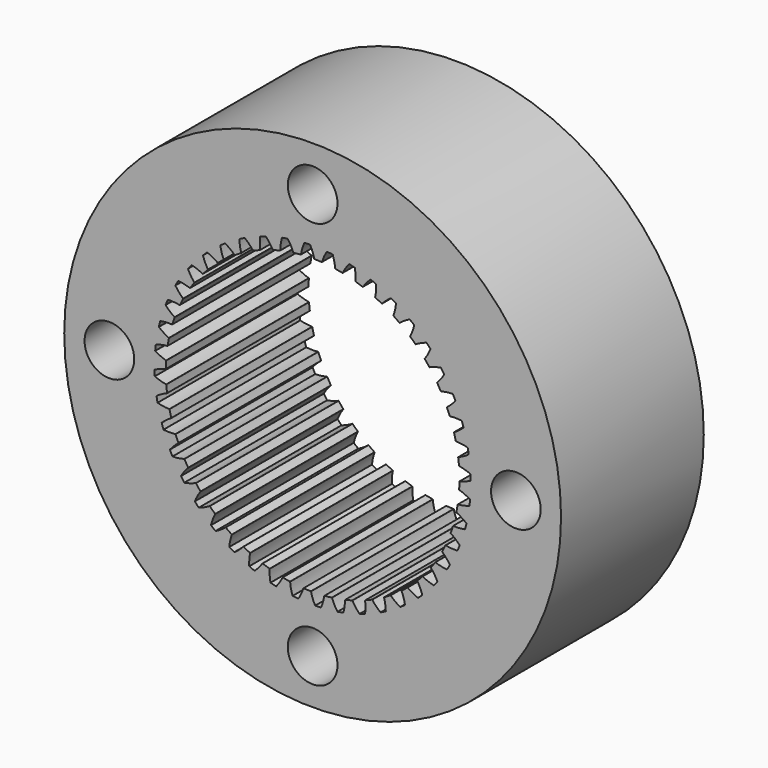
from build123d import *

# Parameters (mm, degrees)
F0_R     = 11
F1_DEPTH = 7.9
F2_R     = 1.1
F3_DEPTH = 7.901
F5_DEPTH = 7.901


with BuildPart() as f1:
    # F0 (on Front) → F1 (new body)
    with BuildSketch(Plane.XZ):
        Circle(F0_R)
        Circle(F0_R)
    extrude(amount=F1_DEPTH)

    # F2 (on face) → F3 (cut, through all)
    with BuildSketch(Plane.XZ.offset(7.9)):
        with Locations((0, 9)):
            Circle(F2_R)
        with Locations((-9, 0)):
            Circle(F2_R)
        with Locations((0, -9)):
            Circle(F2_R)
        with Locations((9, 0)):
            Circle(F2_R)
    extrude(amount=-F3_DEPTH, mode=Mode.SUBTRACT)

    # F4 (on face) → F5 (cut, through all)
    with BuildSketch(Plane.XZ.offset(7.9)):
        with BuildLine():
            ThreePointArc((-0.359812, 6.990746), (-0.366818, 6.988353), (-0.371508, 6.982625))
            ThreePointArc((-0.371508, 6.982625), (-0.458763, 6.74072), (-0.51535, 6.489862))
            ThreePointArc((-0.51535, 6.489862), (-0.519514, 6.482096), (-0.527583, 6.478554))
            ThreePointArc((-0.527583, 6.478554), (-0.684786, 6.463828), (-0.841585, 6.445288))
            ThreePointArc((-0.841585, 6.445288), (-1.144166, 6.398506), (-1.444207, 6.337528))
            ThreePointArc((-1.444207, 6.337528), (-1.597715, 6.30058), (-1.750279, 6.259914))
            ThreePointArc((-1.750279, 6.259914), (-2.043122, 6.170547), (-2.331431, 6.067489))
            ThreePointArc((-2.331431, 6.067489), (-2.478118, 6.009071), (-2.623343, 5.947106))
            ThreePointArc((-2.623343, 5.947106), (-2.900486, 5.816973), (-3.171195, 5.673934))
            ThreePointArc((-3.171195, 5.673934), (-3.308074, 5.595234), (-3.443002, 5.513233))
            ThreePointArc((-3.443002, 5.513233), (-3.698805, 5.344983), (-3.946401, 5.164873))
            ThreePointArc((-3.946401, 5.164873), (-4.070688, 5.067494), (-4.192572, 4.967126))
            ThreePointArc((-4.192572, 4.967126), (-4.421827, 4.764184), (-4.641271, 4.550671))
            ThreePointArc((-4.641271, 4.550671), (-4.750434, 4.436595), (-4.856794, 4.319902))
            ThreePointArc((-4.856794, 4.319902), (-5.054833, 4.086399), (-5.241657, 3.84383))
            ThreePointArc((-5.241657, 3.84383), (-5.333475, 3.71538), (-5.422145, 3.584738))
            ThreePointArc((-5.422145, 3.584738), (-5.584938, 3.325428), (-5.735339, 3.05874))
            ThreePointArc((-5.735339, 3.05874), (-5.807941, 2.91853), (-5.877117, 2.776599))
            ThreePointArc((-5.877117, 2.776599), (-6.001349, 2.49676), (-6.112265, 2.211382))
            ThreePointArc((-6.112265, 2.211382), (-6.164175, 2.062268), (-6.212447, 1.911936))
            ThreePointArc((-6.212447, 1.911936), (-6.29559, 1.617266), (-6.364764, 1.319007))
            ThreePointArc((-6.364764, 1.319007), (-6.394924, 1.164023), (-6.42131, 1.008352))
            ThreePointArc((-6.42131, 1.008352), (-6.461671, 0.704849), (-6.487694, 0.399782))
            ThreePointArc((-6.487694, 0.399782), (-6.49549, 0.242083), (-6.499454, 0.084241))
            ThreePointArc((-6.499454, 0.084241), (-6.496211, -0.221917), (-6.478554, -0.527583))
            ThreePointArc((-6.478554, -0.527583), (-6.463828, -0.684786), (-6.445288, -0.841585))
            ThreePointArc((-6.445288, -0.841585), (-6.398506, -1.144166), (-6.337528, -1.444207))
            ThreePointArc((-6.337528, -1.444207), (-6.30058, -1.597715), (-6.259914, -1.750279))
            ThreePointArc((-6.259914, -1.750279), (-6.170547, -2.043122), (-6.067489, -2.331431))
            ThreePointArc((-6.067489, -2.331431), (-6.009071, -2.478118), (-5.947106, -2.623343))
            ThreePointArc((-5.947106, -2.623343), (-5.816973, -2.900486), (-5.673934, -3.171195))
            ThreePointArc((-5.673934, -3.171195), (-5.595234, -3.308074), (-5.513233, -3.443002))
            ThreePointArc((-5.513233, -3.443002), (-5.344983, -3.698805), (-5.164873, -3.946401))
            ThreePointArc((-5.164873, -3.946401), (-5.067494, -4.070688), (-4.967126, -4.192572))
            ThreePointArc((-4.967126, -4.192572), (-4.764184, -4.421827), (-4.550671, -4.641271))
            ThreePointArc((-4.550671, -4.641271), (-4.436595, -4.750434), (-4.319902, -4.856794))
            ThreePointArc((-4.319902, -4.856794), (-4.086399, -5.054833), (-3.84383, -5.241657))
            ThreePointArc((-3.84383, -5.241657), (-3.71538, -5.333475), (-3.584738, -5.422145))
            ThreePointArc((-3.584738, -5.422145), (-3.325428, -5.584938), (-3.05874, -5.735339))
            ThreePointArc((-3.05874, -5.735339), (-2.91853, -5.807941), (-2.776599, -5.877117))
            ThreePointArc((-2.776599, -5.877117), (-2.49676, -6.001349), (-2.211382, -6.112265))
            ThreePointArc((-2.211382, -6.112265), (-2.062268, -6.164175), (-1.911936, -6.212447))
            ThreePointArc((-1.911936, -6.212447), (-1.617266, -6.29559), (-1.319007, -6.364764))
            ThreePointArc((-1.319007, -6.364764), (-1.164023, -6.394924), (-1.008352, -6.42131))
            ThreePointArc((-1.008352, -6.42131), (-0.704849, -6.461671), (-0.399782, -6.487694))
            ThreePointArc((-0.399782, -6.487694), (-0.242083, -6.49549), (-0.084241, -6.499454))
            ThreePointArc((-0.084241, -6.499454), (0.221917, -6.496211), (0.527583, -6.478554))
            ThreePointArc((0.527583, -6.478554), (0.684786, -6.463828), (0.841585, -6.445288))
            ThreePointArc((0.841585, -6.445288), (1.144166, -6.398506), (1.444207, -6.337528))
            ThreePointArc((1.444207, -6.337528), (1.597715, -6.30058), (1.750279, -6.259914))
            ThreePointArc((1.750279, -6.259914), (2.043122, -6.170547), (2.331431, -6.067489))
            ThreePointArc((2.331431, -6.067489), (2.478118, -6.009071), (2.623343, -5.947106))
            ThreePointArc((2.623343, -5.947106), (2.900486, -5.816973), (3.171195, -5.673934))
            ThreePointArc((3.171195, -5.673934), (3.308074, -5.595234), (3.443002, -5.513233))
            ThreePointArc((3.443002, -5.513233), (3.698805, -5.344983), (3.946401, -5.164873))
            ThreePointArc((3.946401, -5.164873), (4.070688, -5.067494), (4.192572, -4.967126))
            ThreePointArc((4.192572, -4.967126), (4.421827, -4.764184), (4.641271, -4.550671))
            ThreePointArc((4.641271, -4.550671), (4.750434, -4.436595), (4.856794, -4.319902))
            ThreePointArc((4.856794, -4.319902), (5.054833, -4.086399), (5.241657, -3.84383))
            ThreePointArc((5.241657, -3.84383), (5.333475, -3.71538), (5.422145, -3.584738))
            ThreePointArc((5.422145, -3.584738), (5.584938, -3.325428), (5.735339, -3.05874))
            ThreePointArc((5.735339, -3.05874), (5.807941, -2.91853), (5.877117, -2.776599))
            ThreePointArc((5.877117, -2.776599), (6.001349, -2.49676), (6.112265, -2.211382))
            ThreePointArc((6.112265, -2.211382), (6.164175, -2.062268), (6.212447, -1.911936))
            ThreePointArc((6.212447, -1.911936), (6.29559, -1.617266), (6.364764, -1.319007))
            ThreePointArc((6.364764, -1.319007), (6.394924, -1.164023), (6.42131, -1.008352))
            ThreePointArc((6.42131, -1.008352), (6.461671, -0.704849), (6.487694, -0.399782))
            ThreePointArc((6.487694, -0.399782), (6.49549, -0.242083), (6.499454, -0.084241))
            ThreePointArc((6.499454, -0.084241), (6.496211, 0.221917), (6.478554, 0.527583))
            ThreePointArc((6.478554, 0.527583), (6.463828, 0.684786), (6.445288, 0.841585))
            ThreePointArc((6.445288, 0.841585), (6.398506, 1.144166), (6.337528, 1.444207))
            ThreePointArc((6.337528, 1.444207), (6.30058, 1.597715), (6.259914, 1.750279))
            ThreePointArc((6.259914, 1.750279), (6.170547, 2.043122), (6.067489, 2.331431))
            ThreePointArc((6.067489, 2.331431), (6.009071, 2.478118), (5.947106, 2.623343))
            ThreePointArc((5.947106, 2.623343), (5.816973, 2.900486), (5.673934, 3.171195))
            ThreePointArc((5.673934, 3.171195), (5.595234, 3.308074), (5.513233, 3.443002))
            ThreePointArc((5.513233, 3.443002), (5.344983, 3.698805), (5.164873, 3.946401))
            ThreePointArc((5.164873, 3.946401), (5.067494, 4.070688), (4.967126, 4.192572))
            ThreePointArc((4.967126, 4.192572), (4.764184, 4.421827), (4.550671, 4.641271))
            ThreePointArc((4.550671, 4.641271), (4.436595, 4.750434), (4.319902, 4.856794))
            ThreePointArc((4.319902, 4.856794), (4.086399, 5.054833), (3.84383, 5.241657))
            ThreePointArc((3.84383, 5.241657), (3.71538, 5.333475), (3.584738, 5.422145))
            ThreePointArc((3.584738, 5.422145), (3.325428, 5.584938), (3.05874, 5.735339))
            ThreePointArc((3.05874, 5.735339), (2.91853, 5.807941), (2.776599, 5.877117))
            ThreePointArc((2.776599, 5.877117), (2.49676, 6.001349), (2.211382, 6.112265))
            ThreePointArc((2.211382, 6.112265), (2.062268, 6.164175), (1.911936, 6.212447))
            ThreePointArc((1.911936, 6.212447), (1.617266, 6.29559), (1.319007, 6.364764))
            ThreePointArc((1.319007, 6.364764), (1.164023, 6.394924), (1.008352, 6.42131))
            ThreePointArc((1.008352, 6.42131), (0.704849, 6.461671), (0.399782, 6.487694))
            ThreePointArc((0.399782, 6.487694), (0.242083, 6.49549), (0.084241, 6.499454))
            ThreePointArc((0.084241, 6.499454), (0.075949, 6.502438), (0.071265, 6.509902))
            ThreePointArc((0.071265, 6.509902), (-0.002309, 6.756312), (-0.105869, 6.991699))
            ThreePointArc((-0.105869, 6.991699), (-0.110939, 6.997094), (-0.118092, 6.999004))
            ThreePointArc((-0.118092, 6.999004), (-0.238988, 6.995919), (-0.359812, 6.990746))
        make_face()
        with BuildLine():
            ThreePointArc((-1.444207, 6.337528), (-1.144166, 6.398506), (-0.841585, 6.445288))
            ThreePointArc((-0.841585, 6.445288), (-0.850217, 6.447061), (-0.855916, 6.453782))
            ThreePointArc((-0.855916, 6.453782), (-0.963809, 6.687214), (-1.099814, 6.905467))
            ThreePointArc((-1.099814, 6.905467), (-1.1056, 6.910086), (-1.112952, 6.910958))
            ThreePointArc((-1.112952, 6.910958), (-1.232178, 6.890699), (-1.351037, 6.868384))
            ThreePointArc((-1.351037, 6.868384), (-1.357631, 6.865018), (-1.361458, 6.858681))
            ThreePointArc((-1.361458, 6.858681), (-1.413398, 6.60682), (-1.433709, 6.350463))
            ThreePointArc((-1.433709, 6.350463), (-1.436725, 6.342183), (-1.444207, 6.337528))
        make_face()
        with BuildLine():
            ThreePointArc((-2.331431, 6.067489), (-2.043122, 6.170547), (-1.750279, 6.259914))
            ThreePointArc((-1.750279, 6.259914), (-1.759076, 6.260441), (-1.765673, 6.266282))
            ThreePointArc((-1.765673, 6.266282), (-1.905689, 6.481984), (-2.07137, 6.67866))
            ThreePointArc((-2.07137, 6.67866), (-2.077754, 6.682408), (-2.085156, 6.682225))
            ThreePointArc((-2.085156, 6.682225), (-2.200285, 6.645205), (-2.314758, 6.606201))
            ThreePointArc((-2.314758, 6.606201), (-2.320806, 6.601931), (-2.323693, 6.595113))
            ThreePointArc((-2.323693, 6.595113), (-2.33926, 6.338425), (-2.322881, 6.081786))
            ThreePointArc((-2.322881, 6.081786), (-2.324688, 6.073162), (-2.331431, 6.067489))
        make_face()
        with BuildLine():
            ThreePointArc((0.413499, 6.497147), (0.408272, 6.490052), (0.399782, 6.487694))
            ThreePointArc((0.399782, 6.487694), (0.704849, 6.461671), (1.008352, 6.42131))
            ThreePointArc((1.008352, 6.42131), (1.00057, 6.425444), (0.996995, 6.433498))
            ThreePointArc((0.996995, 6.433498), (0.959238, 6.687872), (0.890231, 6.935601))
            ThreePointArc((0.890231, 6.935601), (0.885981, 6.941662), (0.879172, 6.94457))
            ThreePointArc((0.879172, 6.94457), (0.759068, 6.958722), (0.638737, 6.970797))
            ThreePointArc((0.638737, 6.970797), (0.631462, 6.969425), (0.626004, 6.964423))
            ThreePointArc((0.626004, 6.964423), (0.505211, 6.737398), (0.413499, 6.497147))
        make_face()
        with BuildLine():
            ThreePointArc((-3.171195, 5.673934), (-2.900486, 5.816973), (-2.623343, 5.947106))
            ThreePointArc((-2.623343, 5.947106), (-2.632124, 5.946376), (-2.639486, 5.951219))
            ThreePointArc((-2.639486, 5.951219), (-2.808774, 6.144799), (-3.000758, 6.315894))
            ThreePointArc((-3.000758, 6.315894), (-3.007612, 6.318695), (-3.014911, 6.317461))
            ThreePointArc((-3.014911, 6.317461), (-3.123601, 6.264433), (-3.231358, 6.209535))
            ThreePointArc((-3.231358, 6.209535), (-3.236736, 6.204448), (-3.238623, 6.197289))
            ThreePointArc((-3.238623, 6.197289), (-3.217502, 5.940997), (-3.164765, 5.689302))
            ThreePointArc((-3.164765, 5.689302), (-3.165327, 5.680508), (-3.171195, 5.673934))
        make_face()
        with BuildLine():
            ThreePointArc((1.33393, 6.372168), (1.327747, 6.36589), (1.319007, 6.364764))
            ThreePointArc((1.319007, 6.364764), (1.617266, 6.29559), (1.911936, 6.212447))
            ThreePointArc((1.911936, 6.212447), (1.904821, 6.217646), (1.90243, 6.226127))
            ThreePointArc((1.90243, 6.226127), (1.901258, 6.483285), (1.868209, 6.738313))
            ThreePointArc((1.868209, 6.738313), (1.864864, 6.744918), (1.858539, 6.748765))
            ThreePointArc((1.858539, 6.748765), (1.741671, 6.779866), (1.624283, 6.808943))
            ThreePointArc((1.624283, 6.808943), (1.616887, 6.80862), (1.610773, 6.804445))
            ThreePointArc((1.610773, 6.804445), (1.4589, 6.596922), (1.33393, 6.372168))
        make_face()
        with BuildLine():
            ThreePointArc((-3.946401, 5.164873), (-3.698805, 5.344983), (-3.443002, 5.513233))
            ThreePointArc((-3.443002, 5.513233), (-3.451591, 5.51126), (-3.459566, 5.515007))
            ThreePointArc((-3.459566, 5.515007), (-3.654681, 5.682523), (-3.86906, 5.824555))
            ThreePointArc((-3.86906, 5.824555), (-3.876242, 5.826352), (-3.883292, 5.824091))
            ThreePointArc((-3.883292, 5.824091), (-3.983329, 5.756135), (-4.082176, 5.686461))
            ThreePointArc((-4.082176, 5.686461), (-4.086776, 5.68066), (-4.087625, 5.673305))
            ThreePointArc((-4.087625, 5.673305), (-4.030244, 5.422628), (-3.942225, 5.181))
            ThreePointArc((-3.942225, 5.181), (-3.941529, 5.172216), (-3.946401, 5.164873))
        make_face()
        with BuildLine():
            ThreePointArc((2.227207, 6.117471), (2.220193, 6.112136), (2.211382, 6.112265))
            ThreePointArc((2.211382, 6.112265), (2.49676, 6.001349), (2.776599, 5.877117))
            ThreePointArc((2.776599, 5.877117), (2.770296, 5.883275), (2.769136, 5.89201))
            ThreePointArc((2.769136, 5.89201), (2.804573, 6.146717), (2.808155, 6.403853))
            ThreePointArc((2.808155, 6.403853), (2.805784, 6.410866), (2.800071, 6.415575))
            ThreePointArc((2.800071, 6.415575), (2.688819, 6.462991), (2.576764, 6.508478))
            ThreePointArc((2.576764, 6.508478), (2.569397, 6.509211), (2.562751, 6.505949))
            ThreePointArc((2.562751, 6.505949), (2.38289, 6.322151), (2.227207, 6.117471))
        make_face()
        with BuildLine():
            ThreePointArc((-4.641271, 4.550671), (-4.421827, 4.764184), (-4.192572, 4.967126))
            ThreePointArc((-4.192572, 4.967126), (-4.200792, 4.963951), (-4.20922, 4.966524))
            ThreePointArc((-4.20922, 4.966524), (-4.426189, 5.104568), (-4.6586, 5.214644))
            ThreePointArc((-4.6586, 5.214644), (-4.665964, 5.215401), (-4.672621, 5.21216))
            ThreePointArc((-4.672621, 5.21216), (-4.761968, 5.130659), (-4.849893, 5.047627))
            ThreePointArc((-4.849893, 5.047627), (-4.853621, 5.04123), (-4.853414, 5.033829))
            ThreePointArc((-4.853414, 5.033829), (-4.760943, 4.79387), (-4.639432, 4.567228))
            ThreePointArc((-4.639432, 4.567228), (-4.637493, 4.558632), (-4.641271, 4.550671))
        make_face()
        with BuildLine():
            ThreePointArc((3.075144, 5.738239), (3.067442, 5.733957), (3.05874, 5.735339))
            ThreePointArc((3.05874, 5.735339), (3.325428, 5.584938), (3.584738, 5.422145))
            ThreePointArc((3.584738, 5.422145), (3.579376, 5.429137), (3.579471, 5.437949))
            ThreePointArc((3.579471, 5.437949), (3.650796, 5.68502), (3.690936, 5.939029))
            ThreePointArc((3.690936, 5.939029), (3.689587, 5.946308), (3.684602, 5.951782))
            ThreePointArc((3.684602, 5.951782), (3.58123, 6.014548), (3.476789, 6.075519))
            ThreePointArc((3.476789, 6.075519), (3.469602, 6.077294), (3.462559, 6.07501))
            ThreePointArc((3.462559, 6.07501), (3.258372, 5.91868), (3.075144, 5.738239))
        make_face()
        with BuildLine():
            ThreePointArc((-5.241657, 3.84383), (-5.054833, 4.086399), (-4.856794, 4.319902))
            ThreePointArc((-4.856794, 4.319902), (-4.864478, 4.31559), (-4.873187, 4.316937))
            ThreePointArc((-4.873187, 4.316937), (-5.107592, 4.422699), (-5.353303, 4.498579))
            ThreePointArc((-5.353303, 4.498579), (-5.3607, 4.49828), (-5.366828, 4.494125))
            ThreePointArc((-5.366828, 4.494125), (-5.443667, 4.400738), (-5.518881, 4.306037))
            ThreePointArc((-5.518881, 4.306037), (-5.52166, 4.299175), (-5.520402, 4.291879))
            ThreePointArc((-5.520402, 4.291879), (-5.394722, 4.067522), (-5.242193, 3.86048))
            ThreePointArc((-5.242193, 3.86048), (-5.239051, 3.852247), (-5.241657, 3.84383))
        make_face()
        with BuildLine():
            ThreePointArc((3.86048, 5.242193), (3.852247, 5.239051), (3.84383, 5.241657))
            ThreePointArc((3.84383, 5.241657), (4.086399, 5.054833), (4.319902, 4.856794))
            ThreePointArc((4.319902, 4.856794), (4.31559, 4.864478), (4.316937, 4.873187))
            ThreePointArc((4.316937, 4.873187), (4.422699, 5.107592), (4.498579, 5.353303))
            ThreePointArc((4.498579, 5.353303), (4.49828, 5.3607), (4.494125, 5.366828))
            ThreePointArc((4.494125, 5.366828), (4.400738, 5.443667), (4.306037, 5.518881))
            ThreePointArc((4.306037, 5.518881), (4.299175, 5.52166), (4.291879, 5.520402))
            ThreePointArc((4.291879, 5.520402), (4.067522, 5.394722), (3.86048, 5.242193))
        make_face()
        with BuildLine():
            ThreePointArc((-5.735339, 3.05874), (-5.584938, 3.325428), (-5.422145, 3.584738))
            ThreePointArc((-5.422145, 3.584738), (-5.429137, 3.579376), (-5.437949, 3.579471))
            ThreePointArc((-5.437949, 3.579471), (-5.68502, 3.650796), (-5.939029, 3.690936))
            ThreePointArc((-5.939029, 3.690936), (-5.946308, 3.689587), (-5.951782, 3.684602))
            ThreePointArc((-5.951782, 3.684602), (-6.014548, 3.58123), (-6.075519, 3.476789))
            ThreePointArc((-6.075519, 3.476789), (-6.077294, 3.469602), (-6.07501, 3.462559))
            ThreePointArc((-6.07501, 3.462559), (-5.91868, 3.258372), (-5.738239, 3.075144))
            ThreePointArc((-5.738239, 3.075144), (-5.733957, 3.067442), (-5.735339, 3.05874))
        make_face()
        with BuildLine():
            ThreePointArc((4.567228, 4.639432), (4.558632, 4.637493), (4.550671, 4.641271))
            ThreePointArc((4.550671, 4.641271), (4.764184, 4.421827), (4.967126, 4.192572))
            ThreePointArc((4.967126, 4.192572), (4.963951, 4.200792), (4.966524, 4.20922))
            ThreePointArc((4.966524, 4.20922), (5.104568, 4.426189), (5.214644, 4.6586))
            ThreePointArc((5.214644, 4.6586), (5.215401, 4.665964), (5.21216, 4.672621))
            ThreePointArc((5.21216, 4.672621), (5.130659, 4.761968), (5.047627, 4.849893))
            ThreePointArc((5.047627, 4.849893), (5.04123, 4.853621), (5.033829, 4.853414))
            ThreePointArc((5.033829, 4.853414), (4.79387, 4.760943), (4.567228, 4.639432))
        make_face()
        with BuildLine():
            ThreePointArc((-6.112265, 2.211382), (-6.001349, 2.49676), (-5.877117, 2.776599))
            ThreePointArc((-5.877117, 2.776599), (-5.883275, 2.770296), (-5.89201, 2.769136))
            ThreePointArc((-5.89201, 2.769136), (-6.146717, 2.804573), (-6.403853, 2.808155))
            ThreePointArc((-6.403853, 2.808155), (-6.410866, 2.805784), (-6.415575, 2.800071))
            ThreePointArc((-6.415575, 2.800071), (-6.462991, 2.688819), (-6.508478, 2.576764))
            ThreePointArc((-6.508478, 2.576764), (-6.509211, 2.569397), (-6.505949, 2.562751))
            ThreePointArc((-6.505949, 2.562751), (-6.322151, 2.38289), (-6.117471, 2.227207))
            ThreePointArc((-6.117471, 2.227207), (-6.112136, 2.220193), (-6.112265, 2.211382))
        make_face()
        with BuildLine():
            ThreePointArc((5.181, 3.942225), (5.172216, 3.941529), (5.164873, 3.946401))
            ThreePointArc((5.164873, 3.946401), (5.344983, 3.698805), (5.513233, 3.443002))
            ThreePointArc((5.513233, 3.443002), (5.51126, 3.451591), (5.515007, 3.459566))
            ThreePointArc((5.515007, 3.459566), (5.682523, 3.654681), (5.824555, 3.86906))
            ThreePointArc((5.824555, 3.86906), (5.826352, 3.876242), (5.824091, 3.883292))
            ThreePointArc((5.824091, 3.883292), (5.756135, 3.983329), (5.686461, 4.082176))
            ThreePointArc((5.686461, 4.082176), (5.68066, 4.086776), (5.673305, 4.087625))
            ThreePointArc((5.673305, 4.087625), (5.422628, 4.030244), (5.181, 3.942225))
        make_face()
        with BuildLine():
            ThreePointArc((-6.364764, 1.319007), (-6.29559, 1.617266), (-6.212447, 1.911936))
            ThreePointArc((-6.212447, 1.911936), (-6.217646, 1.904821), (-6.226127, 1.90243))
            ThreePointArc((-6.226127, 1.90243), (-6.483285, 1.901258), (-6.738313, 1.868209))
            ThreePointArc((-6.738313, 1.868209), (-6.744918, 1.864864), (-6.748765, 1.858539))
            ThreePointArc((-6.748765, 1.858539), (-6.779866, 1.741671), (-6.808943, 1.624283))
            ThreePointArc((-6.808943, 1.624283), (-6.80862, 1.616887), (-6.804445, 1.610773))
            ThreePointArc((-6.804445, 1.610773), (-6.596922, 1.4589), (-6.372168, 1.33393))
            ThreePointArc((-6.372168, 1.33393), (-6.36589, 1.327747), (-6.364764, 1.319007))
        make_face()
        with BuildLine():
            ThreePointArc((5.689302, 3.164765), (5.680508, 3.165327), (5.673934, 3.171195))
            ThreePointArc((5.673934, 3.171195), (5.816973, 2.900486), (5.947106, 2.623343))
            ThreePointArc((5.947106, 2.623343), (5.946376, 2.632124), (5.951219, 2.639486))
            ThreePointArc((5.951219, 2.639486), (6.144799, 2.808774), (6.315894, 3.000758))
            ThreePointArc((6.315894, 3.000758), (6.318695, 3.007612), (6.317461, 3.014911))
            ThreePointArc((6.317461, 3.014911), (6.264433, 3.123601), (6.209535, 3.231358))
            ThreePointArc((6.209535, 3.231358), (6.204448, 3.236736), (6.197289, 3.238623))
            ThreePointArc((6.197289, 3.238623), (5.940997, 3.217502), (5.689302, 3.164765))
        make_face()
        with BuildLine():
            ThreePointArc((-6.487694, 0.399782), (-6.461671, 0.704849), (-6.42131, 1.008352))
            ThreePointArc((-6.42131, 1.008352), (-6.425444, 1.00057), (-6.433498, 0.996995))
            ThreePointArc((-6.433498, 0.996995), (-6.687872, 0.959238), (-6.935601, 0.890231))
            ThreePointArc((-6.935601, 0.890231), (-6.941662, 0.885981), (-6.94457, 0.879172))
            ThreePointArc((-6.94457, 0.879172), (-6.958722, 0.759068), (-6.970797, 0.638737))
            ThreePointArc((-6.970797, 0.638737), (-6.969425, 0.631462), (-6.964423, 0.626004))
            ThreePointArc((-6.964423, 0.626004), (-6.737398, 0.505211), (-6.497147, 0.413499))
            ThreePointArc((-6.497147, 0.413499), (-6.490052, 0.408272), (-6.487694, 0.399782))
        make_face()
        with BuildLine():
            ThreePointArc((6.081786, 2.322881), (6.073162, 2.324688), (6.067489, 2.331431))
            ThreePointArc((6.067489, 2.331431), (6.170547, 2.043122), (6.259914, 1.750279))
            ThreePointArc((6.259914, 1.750279), (6.260441, 1.759076), (6.266282, 1.765673))
            ThreePointArc((6.266282, 1.765673), (6.481984, 1.905689), (6.67866, 2.07137))
            ThreePointArc((6.67866, 2.07137), (6.682408, 2.077754), (6.682225, 2.085156))
            ThreePointArc((6.682225, 2.085156), (6.645205, 2.200285), (6.606201, 2.314758))
            ThreePointArc((6.606201, 2.314758), (6.601931, 2.320806), (6.595113, 2.323693))
            ThreePointArc((6.595113, 2.323693), (6.338425, 2.33926), (6.081786, 2.322881))
        make_face()
        with BuildLine():
            ThreePointArc((-6.478554, -0.527583), (-6.496211, -0.221917), (-6.499454, 0.084241))
            ThreePointArc((-6.499454, 0.084241), (-6.502438, 0.075949), (-6.509902, 0.071265))
            ThreePointArc((-6.509902, 0.071265), (-6.756312, -0.002309), (-6.991699, -0.105869))
            ThreePointArc((-6.991699, -0.105869), (-6.997094, -0.110939), (-6.999004, -0.118092))
            ThreePointArc((-6.999004, -0.118092), (-6.995919, -0.238988), (-6.990746, -0.359812))
            ThreePointArc((-6.990746, -0.359812), (-6.988353, -0.366818), (-6.982625, -0.371508))
            ThreePointArc((-6.982625, -0.371508), (-6.74072, -0.458763), (-6.489862, -0.51535))
            ThreePointArc((-6.489862, -0.51535), (-6.482096, -0.519514), (-6.478554, -0.527583))
        make_face()
        with BuildLine():
            ThreePointArc((6.350463, 1.433709), (6.342183, 1.436725), (6.337528, 1.444207))
            ThreePointArc((6.337528, 1.444207), (6.398506, 1.144166), (6.445288, 0.841585))
            ThreePointArc((6.445288, 0.841585), (6.447061, 0.850217), (6.453782, 0.855916))
            ThreePointArc((6.453782, 0.855916), (6.687214, 0.963809), (6.905467, 1.099814))
            ThreePointArc((6.905467, 1.099814), (6.910086, 1.1056), (6.910958, 1.112952))
            ThreePointArc((6.910958, 1.112952), (6.890699, 1.232178), (6.868384, 1.351037))
            ThreePointArc((6.868384, 1.351037), (6.865018, 1.357631), (6.858681, 1.361458))
            ThreePointArc((6.858681, 1.361458), (6.60682, 1.413398), (6.350463, 1.433709))
        make_face()
        with BuildLine():
            ThreePointArc((-6.337528, -1.444207), (-6.398506, -1.144166), (-6.445288, -0.841585))
            ThreePointArc((-6.445288, -0.841585), (-6.447061, -0.850217), (-6.453782, -0.855916))
            ThreePointArc((-6.453782, -0.855916), (-6.687214, -0.963809), (-6.905467, -1.099814))
            ThreePointArc((-6.905467, -1.099814), (-6.910086, -1.1056), (-6.910958, -1.112952))
            ThreePointArc((-6.910958, -1.112952), (-6.890699, -1.232178), (-6.868384, -1.351037))
            ThreePointArc((-6.868384, -1.351037), (-6.865018, -1.357631), (-6.858681, -1.361458))
            ThreePointArc((-6.858681, -1.361458), (-6.60682, -1.413398), (-6.350463, -1.433709))
            ThreePointArc((-6.350463, -1.433709), (-6.342183, -1.436725), (-6.337528, -1.444207))
        make_face()
        with BuildLine():
            ThreePointArc((6.489862, 0.51535), (6.482096, 0.519514), (6.478554, 0.527583))
            ThreePointArc((6.478554, 0.527583), (6.496211, 0.221917), (6.499454, -0.084241))
            ThreePointArc((6.499454, -0.084241), (6.502438, -0.075949), (6.509902, -0.071265))
            ThreePointArc((6.509902, -0.071265), (6.756312, 0.002309), (6.991699, 0.105869))
            ThreePointArc((6.991699, 0.105869), (6.997094, 0.110939), (6.999004, 0.118092))
            ThreePointArc((6.999004, 0.118092), (6.995919, 0.238988), (6.990746, 0.359812))
            ThreePointArc((6.990746, 0.359812), (6.988353, 0.366818), (6.982625, 0.371508))
            ThreePointArc((6.982625, 0.371508), (6.74072, 0.458763), (6.489862, 0.51535))
        make_face()
        with BuildLine():
            ThreePointArc((-6.067489, -2.331431), (-6.170547, -2.043122), (-6.259914, -1.750279))
            ThreePointArc((-6.259914, -1.750279), (-6.260441, -1.759076), (-6.266282, -1.765673))
            ThreePointArc((-6.266282, -1.765673), (-6.481984, -1.905689), (-6.67866, -2.07137))
            ThreePointArc((-6.67866, -2.07137), (-6.682408, -2.077754), (-6.682225, -2.085156))
            ThreePointArc((-6.682225, -2.085156), (-6.645205, -2.200285), (-6.606201, -2.314758))
            ThreePointArc((-6.606201, -2.314758), (-6.601931, -2.320806), (-6.595113, -2.323693))
            ThreePointArc((-6.595113, -2.323693), (-6.338425, -2.33926), (-6.081786, -2.322881))
            ThreePointArc((-6.081786, -2.322881), (-6.073162, -2.324688), (-6.067489, -2.331431))
        make_face()
        with BuildLine():
            ThreePointArc((6.497147, -0.413499), (6.490052, -0.408272), (6.487694, -0.399782))
            ThreePointArc((6.487694, -0.399782), (6.461671, -0.704849), (6.42131, -1.008352))
            ThreePointArc((6.42131, -1.008352), (6.425444, -1.00057), (6.433498, -0.996995))
            ThreePointArc((6.433498, -0.996995), (6.687872, -0.959238), (6.935601, -0.890231))
            ThreePointArc((6.935601, -0.890231), (6.941662, -0.885981), (6.94457, -0.879172))
            ThreePointArc((6.94457, -0.879172), (6.958722, -0.759068), (6.970797, -0.638737))
            ThreePointArc((6.970797, -0.638737), (6.969425, -0.631462), (6.964423, -0.626004))
            ThreePointArc((6.964423, -0.626004), (6.737398, -0.505211), (6.497147, -0.413499))
        make_face()
        with BuildLine():
            ThreePointArc((-5.673934, -3.171195), (-5.816973, -2.900486), (-5.947106, -2.623343))
            ThreePointArc((-5.947106, -2.623343), (-5.946376, -2.632124), (-5.951219, -2.639486))
            ThreePointArc((-5.951219, -2.639486), (-6.144799, -2.808774), (-6.315894, -3.000758))
            ThreePointArc((-6.315894, -3.000758), (-6.318695, -3.007612), (-6.317461, -3.014911))
            ThreePointArc((-6.317461, -3.014911), (-6.264433, -3.123601), (-6.209535, -3.231358))
            ThreePointArc((-6.209535, -3.231358), (-6.204448, -3.236736), (-6.197289, -3.238623))
            ThreePointArc((-6.197289, -3.238623), (-5.940997, -3.217502), (-5.689302, -3.164765))
            ThreePointArc((-5.689302, -3.164765), (-5.680508, -3.165327), (-5.673934, -3.171195))
        make_face()
        with BuildLine():
            ThreePointArc((6.372168, -1.33393), (6.36589, -1.327747), (6.364764, -1.319007))
            ThreePointArc((6.364764, -1.319007), (6.29559, -1.617266), (6.212447, -1.911936))
            ThreePointArc((6.212447, -1.911936), (6.217646, -1.904821), (6.226127, -1.90243))
            ThreePointArc((6.226127, -1.90243), (6.483285, -1.901258), (6.738313, -1.868209))
            ThreePointArc((6.738313, -1.868209), (6.744918, -1.864864), (6.748765, -1.858539))
            ThreePointArc((6.748765, -1.858539), (6.779866, -1.741671), (6.808943, -1.624283))
            ThreePointArc((6.808943, -1.624283), (6.80862, -1.616887), (6.804445, -1.610773))
            ThreePointArc((6.804445, -1.610773), (6.596922, -1.4589), (6.372168, -1.33393))
        make_face()
        with BuildLine():
            ThreePointArc((-5.164873, -3.946401), (-5.344983, -3.698805), (-5.513233, -3.443002))
            ThreePointArc((-5.513233, -3.443002), (-5.51126, -3.451591), (-5.515007, -3.459566))
            ThreePointArc((-5.515007, -3.459566), (-5.682523, -3.654681), (-5.824555, -3.86906))
            ThreePointArc((-5.824555, -3.86906), (-5.826352, -3.876242), (-5.824091, -3.883292))
            ThreePointArc((-5.824091, -3.883292), (-5.756135, -3.983329), (-5.686461, -4.082176))
            ThreePointArc((-5.686461, -4.082176), (-5.68066, -4.086776), (-5.673305, -4.087625))
            ThreePointArc((-5.673305, -4.087625), (-5.422628, -4.030244), (-5.181, -3.942225))
            ThreePointArc((-5.181, -3.942225), (-5.172216, -3.941529), (-5.164873, -3.946401))
        make_face()
        with BuildLine():
            ThreePointArc((6.117471, -2.227207), (6.112136, -2.220193), (6.112265, -2.211382))
            ThreePointArc((6.112265, -2.211382), (6.001349, -2.49676), (5.877117, -2.776599))
            ThreePointArc((5.877117, -2.776599), (5.883275, -2.770296), (5.89201, -2.769136))
            ThreePointArc((5.89201, -2.769136), (6.146717, -2.804573), (6.403853, -2.808155))
            ThreePointArc((6.403853, -2.808155), (6.410866, -2.805784), (6.415575, -2.800071))
            ThreePointArc((6.415575, -2.800071), (6.462991, -2.688819), (6.508478, -2.576764))
            ThreePointArc((6.508478, -2.576764), (6.509211, -2.569397), (6.505949, -2.562751))
            ThreePointArc((6.505949, -2.562751), (6.322151, -2.38289), (6.117471, -2.227207))
        make_face()
        with BuildLine():
            ThreePointArc((-4.550671, -4.641271), (-4.764184, -4.421827), (-4.967126, -4.192572))
            ThreePointArc((-4.967126, -4.192572), (-4.963951, -4.200792), (-4.966524, -4.20922))
            ThreePointArc((-4.966524, -4.20922), (-5.104568, -4.426189), (-5.214644, -4.6586))
            ThreePointArc((-5.214644, -4.6586), (-5.215401, -4.665964), (-5.21216, -4.672621))
            ThreePointArc((-5.21216, -4.672621), (-5.130659, -4.761968), (-5.047627, -4.849893))
            ThreePointArc((-5.047627, -4.849893), (-5.04123, -4.853621), (-5.033829, -4.853414))
            ThreePointArc((-5.033829, -4.853414), (-4.79387, -4.760943), (-4.567228, -4.639432))
            ThreePointArc((-4.567228, -4.639432), (-4.558632, -4.637493), (-4.550671, -4.641271))
        make_face()
        with BuildLine():
            ThreePointArc((5.738239, -3.075144), (5.733957, -3.067442), (5.735339, -3.05874))
            ThreePointArc((5.735339, -3.05874), (5.584938, -3.325428), (5.422145, -3.584738))
            ThreePointArc((5.422145, -3.584738), (5.429137, -3.579376), (5.437949, -3.579471))
            ThreePointArc((5.437949, -3.579471), (5.68502, -3.650796), (5.939029, -3.690936))
            ThreePointArc((5.939029, -3.690936), (5.946308, -3.689587), (5.951782, -3.684602))
            ThreePointArc((5.951782, -3.684602), (6.014548, -3.58123), (6.075519, -3.476789))
            ThreePointArc((6.075519, -3.476789), (6.077294, -3.469602), (6.07501, -3.462559))
            ThreePointArc((6.07501, -3.462559), (5.91868, -3.258372), (5.738239, -3.075144))
        make_face()
        with BuildLine():
            ThreePointArc((-3.84383, -5.241657), (-4.086399, -5.054833), (-4.319902, -4.856794))
            ThreePointArc((-4.319902, -4.856794), (-4.31559, -4.864478), (-4.316937, -4.873187))
            ThreePointArc((-4.316937, -4.873187), (-4.422699, -5.107592), (-4.498579, -5.353303))
            ThreePointArc((-4.498579, -5.353303), (-4.49828, -5.3607), (-4.494125, -5.366828))
            ThreePointArc((-4.494125, -5.366828), (-4.400738, -5.443667), (-4.306037, -5.518881))
            ThreePointArc((-4.306037, -5.518881), (-4.299175, -5.52166), (-4.291879, -5.520402))
            ThreePointArc((-4.291879, -5.520402), (-4.067522, -5.394722), (-3.86048, -5.242193))
            ThreePointArc((-3.86048, -5.242193), (-3.852247, -5.239051), (-3.84383, -5.241657))
        make_face()
        with BuildLine():
            ThreePointArc((5.242193, -3.86048), (5.239051, -3.852247), (5.241657, -3.84383))
            ThreePointArc((5.241657, -3.84383), (5.054833, -4.086399), (4.856794, -4.319902))
            ThreePointArc((4.856794, -4.319902), (4.864478, -4.31559), (4.873187, -4.316937))
            ThreePointArc((4.873187, -4.316937), (5.107592, -4.422699), (5.353303, -4.498579))
            ThreePointArc((5.353303, -4.498579), (5.3607, -4.49828), (5.366828, -4.494125))
            ThreePointArc((5.366828, -4.494125), (5.443667, -4.400738), (5.518881, -4.306037))
            ThreePointArc((5.518881, -4.306037), (5.52166, -4.299175), (5.520402, -4.291879))
            ThreePointArc((5.520402, -4.291879), (5.394722, -4.067522), (5.242193, -3.86048))
        make_face()
        with BuildLine():
            ThreePointArc((-3.05874, -5.735339), (-3.325428, -5.584938), (-3.584738, -5.422145))
            ThreePointArc((-3.584738, -5.422145), (-3.579376, -5.429137), (-3.579471, -5.437949))
            ThreePointArc((-3.579471, -5.437949), (-3.650796, -5.68502), (-3.690936, -5.939029))
            ThreePointArc((-3.690936, -5.939029), (-3.689587, -5.946308), (-3.684602, -5.951782))
            ThreePointArc((-3.684602, -5.951782), (-3.58123, -6.014548), (-3.476789, -6.075519))
            ThreePointArc((-3.476789, -6.075519), (-3.469602, -6.077294), (-3.462559, -6.07501))
            ThreePointArc((-3.462559, -6.07501), (-3.258372, -5.91868), (-3.075144, -5.738239))
            ThreePointArc((-3.075144, -5.738239), (-3.067442, -5.733957), (-3.05874, -5.735339))
        make_face()
        with BuildLine():
            ThreePointArc((4.639432, -4.567228), (4.637493, -4.558632), (4.641271, -4.550671))
            ThreePointArc((4.641271, -4.550671), (4.421827, -4.764184), (4.192572, -4.967126))
            ThreePointArc((4.192572, -4.967126), (4.200792, -4.963951), (4.20922, -4.966524))
            ThreePointArc((4.20922, -4.966524), (4.426189, -5.104568), (4.6586, -5.214644))
            ThreePointArc((4.6586, -5.214644), (4.665964, -5.215401), (4.672621, -5.21216))
            ThreePointArc((4.672621, -5.21216), (4.761968, -5.130659), (4.849893, -5.047627))
            ThreePointArc((4.849893, -5.047627), (4.853621, -5.04123), (4.853414, -5.033829))
            ThreePointArc((4.853414, -5.033829), (4.760943, -4.79387), (4.639432, -4.567228))
        make_face()
        with BuildLine():
            ThreePointArc((-2.211382, -6.112265), (-2.49676, -6.001349), (-2.776599, -5.877117))
            ThreePointArc((-2.776599, -5.877117), (-2.770296, -5.883275), (-2.769136, -5.89201))
            ThreePointArc((-2.769136, -5.89201), (-2.804573, -6.146717), (-2.808155, -6.403853))
            ThreePointArc((-2.808155, -6.403853), (-2.805784, -6.410866), (-2.800071, -6.415575))
            ThreePointArc((-2.800071, -6.415575), (-2.688819, -6.462991), (-2.576764, -6.508478))
            ThreePointArc((-2.576764, -6.508478), (-2.569397, -6.509211), (-2.562751, -6.505949))
            ThreePointArc((-2.562751, -6.505949), (-2.38289, -6.322151), (-2.227207, -6.117471))
            ThreePointArc((-2.227207, -6.117471), (-2.220193, -6.112136), (-2.211382, -6.112265))
        make_face()
        with BuildLine():
            ThreePointArc((3.942225, -5.181), (3.941529, -5.172216), (3.946401, -5.164873))
            ThreePointArc((3.946401, -5.164873), (3.698805, -5.344983), (3.443002, -5.513233))
            ThreePointArc((3.443002, -5.513233), (3.451591, -5.51126), (3.459566, -5.515007))
            ThreePointArc((3.459566, -5.515007), (3.654681, -5.682523), (3.86906, -5.824555))
            ThreePointArc((3.86906, -5.824555), (3.876242, -5.826352), (3.883292, -5.824091))
            ThreePointArc((3.883292, -5.824091), (3.983329, -5.756135), (4.082176, -5.686461))
            ThreePointArc((4.082176, -5.686461), (4.086776, -5.68066), (4.087625, -5.673305))
            ThreePointArc((4.087625, -5.673305), (4.030244, -5.422628), (3.942225, -5.181))
        make_face()
        with BuildLine():
            ThreePointArc((-1.319007, -6.364764), (-1.617266, -6.29559), (-1.911936, -6.212447))
            ThreePointArc((-1.911936, -6.212447), (-1.904821, -6.217646), (-1.90243, -6.226127))
            ThreePointArc((-1.90243, -6.226127), (-1.901258, -6.483285), (-1.868209, -6.738313))
            ThreePointArc((-1.868209, -6.738313), (-1.864864, -6.744918), (-1.858539, -6.748765))
            ThreePointArc((-1.858539, -6.748765), (-1.741671, -6.779866), (-1.624283, -6.808943))
            ThreePointArc((-1.624283, -6.808943), (-1.616887, -6.80862), (-1.610773, -6.804445))
            ThreePointArc((-1.610773, -6.804445), (-1.4589, -6.596922), (-1.33393, -6.372168))
            ThreePointArc((-1.33393, -6.372168), (-1.327747, -6.36589), (-1.319007, -6.364764))
        make_face()
        with BuildLine():
            ThreePointArc((3.164765, -5.689302), (3.165327, -5.680508), (3.171195, -5.673934))
            ThreePointArc((3.171195, -5.673934), (2.900486, -5.816973), (2.623343, -5.947106))
            ThreePointArc((2.623343, -5.947106), (2.632124, -5.946376), (2.639486, -5.951219))
            ThreePointArc((2.639486, -5.951219), (2.808774, -6.144799), (3.000758, -6.315894))
            ThreePointArc((3.000758, -6.315894), (3.007612, -6.318695), (3.014911, -6.317461))
            ThreePointArc((3.014911, -6.317461), (3.123601, -6.264433), (3.231358, -6.209535))
            ThreePointArc((3.231358, -6.209535), (3.236736, -6.204448), (3.238623, -6.197289))
            ThreePointArc((3.238623, -6.197289), (3.217502, -5.940997), (3.164765, -5.689302))
        make_face()
        with BuildLine():
            ThreePointArc((-0.399782, -6.487694), (-0.704849, -6.461671), (-1.008352, -6.42131))
            ThreePointArc((-1.008352, -6.42131), (-1.00057, -6.425444), (-0.996995, -6.433498))
            ThreePointArc((-0.996995, -6.433498), (-0.959238, -6.687872), (-0.890231, -6.935601))
            ThreePointArc((-0.890231, -6.935601), (-0.885981, -6.941662), (-0.879172, -6.94457))
            ThreePointArc((-0.879172, -6.94457), (-0.759068, -6.958722), (-0.638737, -6.970797))
            ThreePointArc((-0.638737, -6.970797), (-0.631462, -6.969425), (-0.626004, -6.964423))
            ThreePointArc((-0.626004, -6.964423), (-0.505211, -6.737398), (-0.413499, -6.497147))
            ThreePointArc((-0.413499, -6.497147), (-0.408272, -6.490052), (-0.399782, -6.487694))
        make_face()
        with BuildLine():
            ThreePointArc((2.322881, -6.081786), (2.324688, -6.073162), (2.331431, -6.067489))
            ThreePointArc((2.331431, -6.067489), (2.043122, -6.170547), (1.750279, -6.259914))
            ThreePointArc((1.750279, -6.259914), (1.759076, -6.260441), (1.765673, -6.266282))
            ThreePointArc((1.765673, -6.266282), (1.905689, -6.481984), (2.07137, -6.67866))
            ThreePointArc((2.07137, -6.67866), (2.077754, -6.682408), (2.085156, -6.682225))
            ThreePointArc((2.085156, -6.682225), (2.200285, -6.645205), (2.314758, -6.606201))
            ThreePointArc((2.314758, -6.606201), (2.320806, -6.601931), (2.323693, -6.595113))
            ThreePointArc((2.323693, -6.595113), (2.33926, -6.338425), (2.322881, -6.081786))
        make_face()
        with BuildLine():
            ThreePointArc((0.527583, -6.478554), (0.221917, -6.496211), (-0.084241, -6.499454))
            ThreePointArc((-0.084241, -6.499454), (-0.075949, -6.502438), (-0.071265, -6.509902))
            ThreePointArc((-0.071265, -6.509902), (0.002309, -6.756312), (0.105869, -6.991699))
            ThreePointArc((0.105869, -6.991699), (0.110939, -6.997094), (0.118092, -6.999004))
            ThreePointArc((0.118092, -6.999004), (0.238988, -6.995919), (0.359812, -6.990746))
            ThreePointArc((0.359812, -6.990746), (0.366818, -6.988353), (0.371508, -6.982625))
            ThreePointArc((0.371508, -6.982625), (0.458763, -6.74072), (0.51535, -6.489862))
            ThreePointArc((0.51535, -6.489862), (0.519514, -6.482096), (0.527583, -6.478554))
        make_face()
        with BuildLine():
            ThreePointArc((1.433709, -6.350463), (1.436725, -6.342183), (1.444207, -6.337528))
            ThreePointArc((1.444207, -6.337528), (1.144166, -6.398506), (0.841585, -6.445288))
            ThreePointArc((0.841585, -6.445288), (0.850217, -6.447061), (0.855916, -6.453782))
            ThreePointArc((0.855916, -6.453782), (0.963809, -6.687214), (1.099814, -6.905467))
            ThreePointArc((1.099814, -6.905467), (1.1056, -6.910086), (1.112952, -6.910958))
            ThreePointArc((1.112952, -6.910958), (1.232178, -6.890699), (1.351037, -6.868384))
            ThreePointArc((1.351037, -6.868384), (1.357631, -6.865018), (1.361458, -6.858681))
            ThreePointArc((1.361458, -6.858681), (1.413398, -6.60682), (1.433709, -6.350463))
        make_face()
    extrude(amount=-F5_DEPTH, mode=Mode.SUBTRACT)


solid = f1.part
